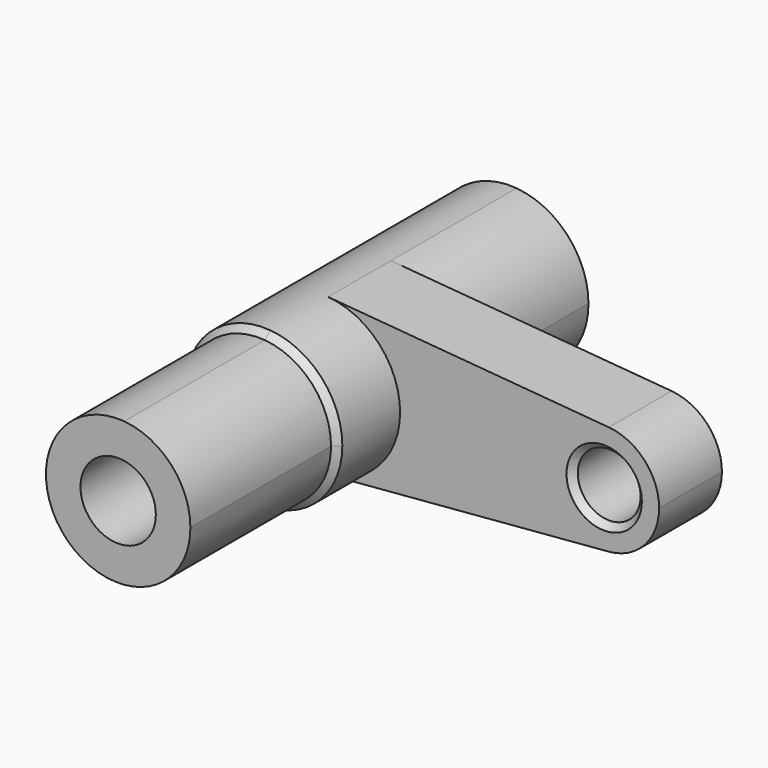
from build123d import *

# Parameters (mm, degrees)
F0_R     = 10
F1_DEPTH = 25
F2_DEPTH = 50
F3_SIZE  = 2
F4_SIZE  = 2
F5_DEPTH = 50
F6_SIZE  = 2
F7_DEPTH = 56


with BuildPart() as f1:
    # F0 (on Front) → F1 (new body)
    with BuildSketch(Plane.XZ):
        with BuildLine():
            ThreePointArc((2.0833333333, -24.9130432148), (18.3995018048, -16.9250800097), (25, 0))
            ThreePointArc((25, 0), (18.3995018048, 16.9250800097), (2.0833333333, 24.9130432148))
            ThreePointArc((2.0833333333, 24.9130432148), (-25, 0), (2.0833333333, -24.9130432148))
        make_face()
        Circle(F0_R, mode=Mode.SUBTRACT)
        with BuildLine():
            ThreePointArc((2.0833333333, 24.9130432148), (18.3995018048, 16.9250800097), (25, 0))
            ThreePointArc((25, 0), (18.3995018048, -16.9250800097), (2.0833333333, -24.9130432148))
            Line((2.0833333333, -24.9130432148), (91.4583333333, -17.4391302504))
            ThreePointArc((91.4583333333, -17.4391302504), (72.5, 0), (91.4583333333, 17.4391302504))
            Line((91.4583333333, 17.4391302504), (2.0833333333, 24.9130432148))
        make_face()
        with BuildLine():
            ThreePointArc((107.5, 0), (102.8796512634, 11.8475560068), (91.4583333333, 17.4391302504))
            ThreePointArc((91.4583333333, 17.4391302504), (72.5, 0), (91.4583333333, -17.4391302504))
            ThreePointArc((91.4583333333, -17.4391302504), (102.8796512634, -11.8475560068), (107.5, 0))
        make_face()
        with Locations((90, 0)):
            Circle(F0_R, mode=Mode.SUBTRACT)
    extrude(amount=F1_DEPTH)

    # F0 (on Front) → F2 (join)
    with BuildSketch(Plane.XZ):
        with BuildLine():
            ThreePointArc((2.0833333333, -24.9130432148), (18.3995018048, -16.9250800097), (25, 0))
            ThreePointArc((25, 0), (18.3995018048, 16.9250800097), (2.0833333333, 24.9130432148))
            ThreePointArc((2.0833333333, 24.9130432148), (-25, 0), (2.0833333333, -24.9130432148))
        make_face()
        Circle(F0_R, mode=Mode.SUBTRACT)
    extrude(amount=F2_DEPTH)

    # F3
    f3_edges = [f1.edges().sort_by_distance(p)[0] for p in [
        (-2.083333, -50, 24.913043),
        (-10, -50, 0),
        (80, -25, 0),
    ]]
    chamfer(f3_edges, length=F3_SIZE)

    # F4
    f4_edges = [f1.edges().sort_by_distance(p)[0] for p in [
        (-10, 0, 0),
    ]]
    chamfer(f4_edges, length=F4_SIZE)

    # F0 (on Front) → F5 (join)
    with BuildSketch(Plane.XZ):
        with BuildLine():
            ThreePointArc((2.0833333333, -24.9130432148), (18.3995018048, -16.9250800097), (25, 0))
            ThreePointArc((25, 0), (18.3995018048, 16.9250800097), (2.0833333333, 24.9130432148))
            ThreePointArc((2.0833333333, 24.9130432148), (-25, 0), (2.0833333333, -24.9130432148))
        make_face()
        Circle(F0_R, mode=Mode.SUBTRACT)
    extrude(amount=-F5_DEPTH)

    # F6
    f6_edges = [f1.edges().sort_by_distance(p)[0] for p in [
        (-10, 50, 0),
    ]]
    chamfer(f6_edges, length=F6_SIZE)

    # F7 (add): a face of the model
    f7_faces = [f1.faces().sort_by_distance(p)[0] for p in [
        (-1.8624551468, -50, 22.2717242675),
    ]]
    extrude(f7_faces, amount=F7_DEPTH)


solid = f1.part
